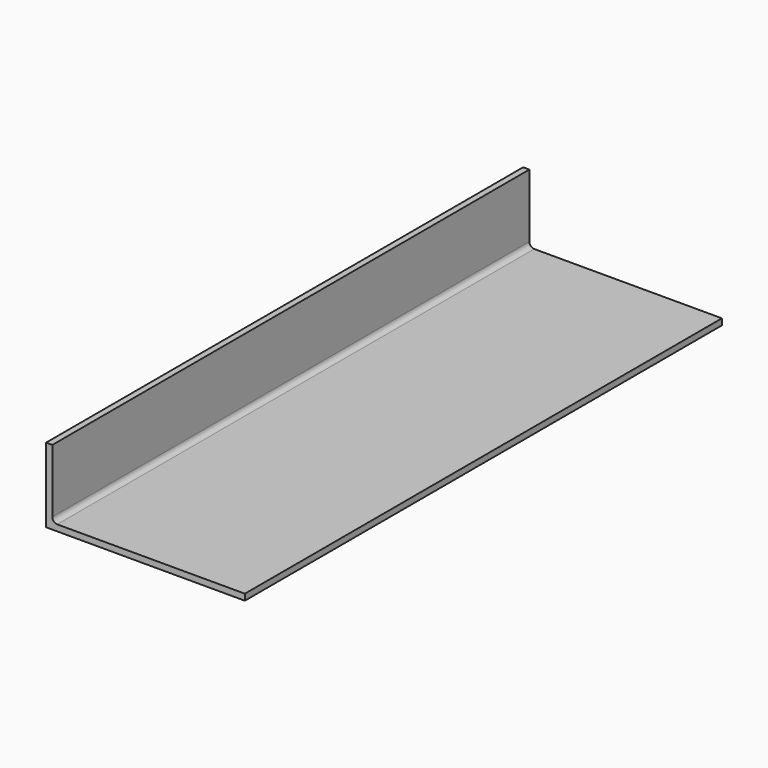
from build123d import *

# Parameters (mm, degrees)
F1_DEPTH = 609.6
F2_R     = 5.08


with BuildPart() as f1:
    # F0 (on Front) → F1 (new body)
    with BuildSketch(Plane.XZ):
        Polygon((0, 76.2), (0, 0), (203.2, 0), (203.2, 6.35), (6.35, 6.35), (6.35, 76.2), align=None)
    extrude(amount=-F1_DEPTH)

    # F2
    f2_edges = [f1.edges().sort_by_distance(p)[0] for p in [
        (6.35, 304.8, 6.35),
    ]]
    fillet(f2_edges, radius=F2_R)


solid = f1.part
